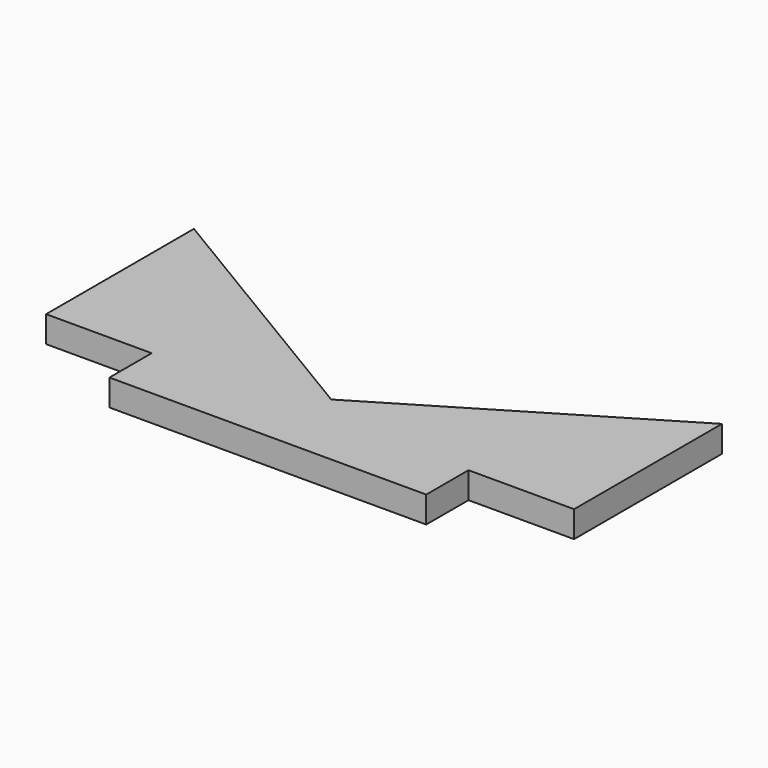
from build123d import *

# Parameters (mm, degrees)
F0_W     = 38.1
F0_H     = 6.35
F1_DEPTH = 3.175


with BuildPart() as f1:
    # F0 (on Top) → F1 (new body)
    with BuildSketch(Plane.XY):
        Polygon((0, 28.6406210477), (0, 9.5906210477), (15.875, 19.1156210477), align=None)
        Polygon((15.875, 19.1156210477), (0, 9.5906210477), (31.75, 9.5906210477), align=None)
        Polygon((47.625, 19.1156210477), (31.75, 9.5906210477), (63.5, 9.5906210477), align=None)
        Polygon((47.625, 19.1156210477), (63.5, 9.5906210477), (63.5, 28.6406210477), align=None)
        Polygon((0, 9.5906210477), (0, 6.4156210477), (12.7, 6.4156210477), (50.8, 6.4156210477), (63.5, 6.4156210477), (63.5, 9.5906210477), (31.75, 9.5906210477), align=None)
        with Locations((31.75, 3.2406210477)):
            Rectangle(F0_W, F0_H)
    extrude(amount=F1_DEPTH)


solid = f1.part
